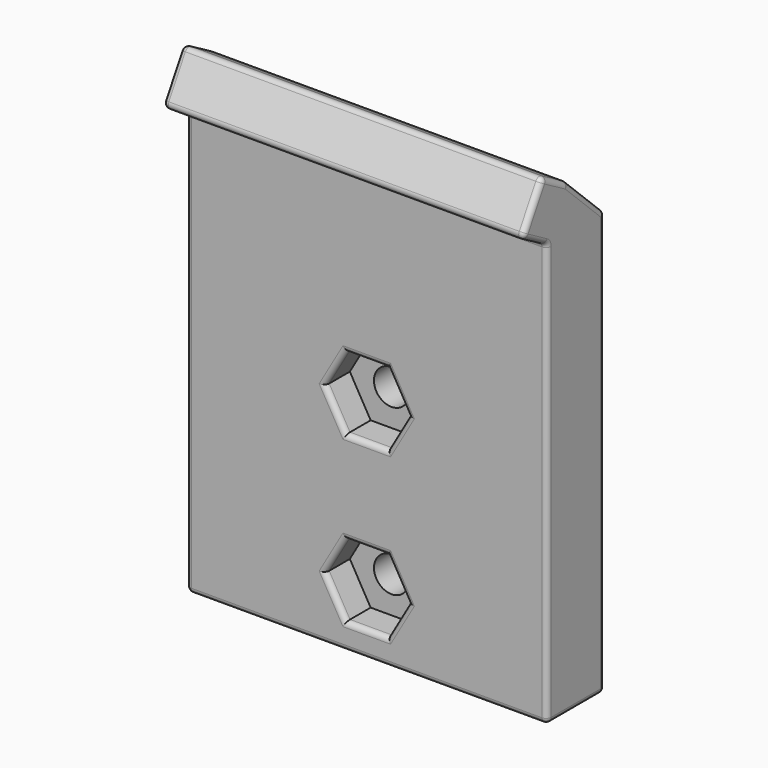
from build123d import *

# Parameters (mm, degrees)
F0_W     = 35
F0_H     = 41
F0_R     = 1.7
F1_DEPTH = 7
F3_DEPTH = 35
F4_R     = 1.7
F5_DEPTH = 3
F6_R     = 0.5


with BuildPart() as f1:
    # F0 (on Front) → F1 (new body)
    with BuildSketch(Plane.XZ):
        with Locations((0, 20.5)):
            Rectangle(F0_W, F0_H)
        with Locations((0, 6)):
            Circle(F0_R, mode=Mode.SUBTRACT)
        with Locations((0, 22)):
            Circle(F0_R, mode=Mode.SUBTRACT)
    extrude(amount=F1_DEPTH)

    # F2 (on face) → F3 (join, through all)
    with BuildSketch(Plane.YZ.offset(17.5)):
        Polygon((-10, 42.732051), (-7, 41), (0, 41), (-4.5, 45.330127), (-7.5, 47.062178), align=None)
    extrude(amount=-F3_DEPTH)

    # F4 (on face) → F5 (cut)
    with BuildSketch(Plane.XZ.offset(7)):
        Polygon((4.041452, 22), (2.020726, 25.5), (-2.020726, 25.5), (-4.041452, 22), (-2.020726, 18.5), (2.020726, 18.5), align=None)
        with Locations((0, 22)):
            Circle(F4_R, mode=Mode.SUBTRACT)
        Polygon((4.041452, 6), (2.020726, 9.5), (-2.020726, 9.5), (-4.041452, 6), (-2.020726, 2.5), (2.020726, 2.5), align=None)
        with Locations((0, 6)):
            Circle(F4_R, mode=Mode.SUBTRACT)
    extrude(amount=-F5_DEPTH, mode=Mode.SUBTRACT)

    # F6
    f6_edges = [f1.edges().sort_by_distance(p)[0] for p in [
        (17.5, -3.5, 0),
        (17.5, -7, 20.5),
        (17.5, -8.5, 41.866025),
        (17.5, -8.75, 44.897114),
        (17.5, -6, 46.196152),
        (17.5, -2.25, 43.165064),
        (17.5, 0, 20.5),
        (-17.5, -7, 20.5),
        (0, -7, 41),
        (0, -7, 0),
        (3.031089, -7, 7.75),
        (0, -7, 9.5),
        (-3.031089, -7, 7.75),
        (-3.031089, -7, 4.25),
        (0, -7, 2.5),
        (3.031089, -7, 4.25),
        (3.031089, -7, 20.25),
        (3.031089, -7, 23.75),
        (0, -7, 25.5),
        (-3.031089, -7, 23.75),
        (-3.031089, -7, 20.25),
        (0, -7, 18.5),
        (0, -7.5, 47.062178),
        (0, -10, 42.732051),
        (-17.5, -8.75, 44.897114),
        (-17.5, -3.5, 0),
        (-17.5, 0, 20.5),
        (-17.5, -2.25, 43.165064),
        (-17.5, -6, 46.196152),
        (-17.5, -8.5, 41.866025),
        (0, 0, 0),
        (0, 0, 41),
        (-1.7, 0, 6),
        (-1.7, 0, 22),
        (0, -4.5, 45.330127),
    ]]
    fillet(f6_edges, radius=F6_R)


solid = f1.part
